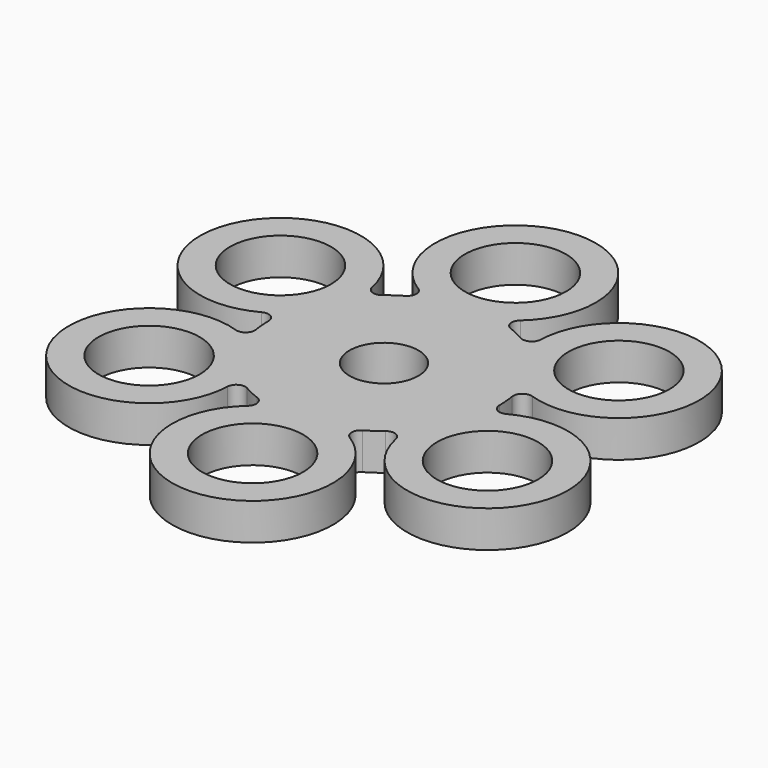
from build123d import *

# Parameters (mm, degrees)
F0_R     = 11.005661
F0_R_2   = 7.5
F1_DEPTH = 8
F2_R     = 2


with BuildPart() as f1:
    # F0 (on Top) → F1 (new body)
    with BuildSketch(Plane.XY):
        with BuildLine():
            ThreePointArc((15.690977, 19.462612), (10.66965, 22.608816), (5.048904, 24.484864))
            ThreePointArc((5.048904, 24.484864), (-4.747707, 57.303658), (-9.009628, 23.32009))
            ThreePointArc((-9.009628, 23.32009), (-14.244984, 20.544596), (-18.680062, 16.614912))
            ThreePointArc((-18.680062, 16.614912), (-52.000278, 24.540194), (-24.700604, 3.857479))
            ThreePointArc((-24.700604, 3.857479), (-24.914634, -2.064221), (-23.728966, -7.869952))
            ThreePointArc((-23.728966, -7.869952), (-47.25257, -32.763464), (-15.690977, -19.462612))
            ThreePointArc((-15.690977, -19.462612), (-10.66965, -22.608816), (-5.048904, -24.484864))
            ThreePointArc((-5.048904, -24.484864), (4.747707, -57.303658), (9.009628, -23.32009))
            ThreePointArc((9.009628, -23.32009), (14.244984, -20.544596), (18.680062, -16.614912))
            ThreePointArc((18.680062, -16.614912), (52.000278, -24.540194), (24.700604, -3.857479))
            ThreePointArc((24.700604, -3.857479), (24.914634, 2.064221), (23.728966, 7.869952))
            ThreePointArc((23.728966, 7.869952), (47.25257, 32.763464), (15.690977, 19.462612))
        make_face()
        with Locations((-32.871353, -22.791975)):
            Circle(F0_R, mode=Mode.SUBTRACT)
        with Locations((3.302753, -39.863415)):
            Circle(F0_R, mode=Mode.SUBTRACT)
        with Locations((36.174106, -17.071439)):
            Circle(F0_R, mode=Mode.SUBTRACT)
        with Locations((-36.174106, 17.071439)):
            Circle(F0_R, mode=Mode.SUBTRACT)
        with Locations((-3.302753, 39.863415)):
            Circle(F0_R, mode=Mode.SUBTRACT)
        Circle(F0_R_2, mode=Mode.SUBTRACT)
        with Locations((32.871353, 22.791975)):
            Circle(F0_R, mode=Mode.SUBTRACT)
    extrude(amount=F1_DEPTH)

    # F2
    f2_edges = [f1.edges().sort_by_distance(p)[0] for p in [
        (15.690977, 19.462612, 4),
        (5.048904, 24.484864, 4),
        (-9.009628, 23.32009, 4),
        (-18.680062, 16.614912, 4),
        (24.700604, -3.857479, 4),
        (23.728966, 7.869952, 4),
        (18.680062, -16.614912, 4),
        (9.009628, -23.32009, 4),
        (-5.048904, -24.484864, 4),
        (-15.690977, -19.462612, 4),
        (-23.728966, -7.869952, 4),
        (-24.700604, 3.857479, 4),
    ]]
    fillet(f2_edges, radius=F2_R)


solid = f1.part
